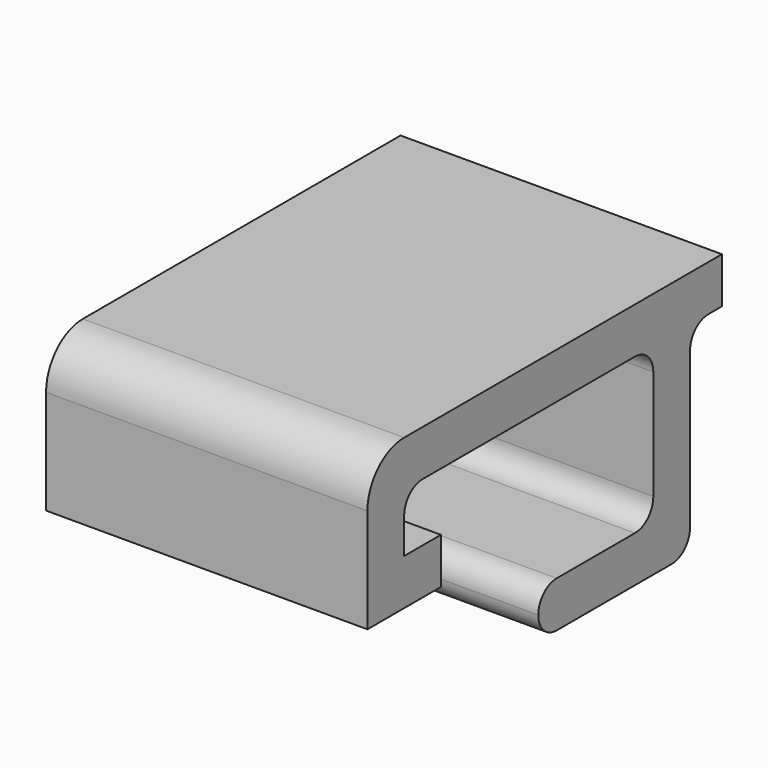
from build123d import *

# Parameters (mm, degrees)
F1_DEPTH = 35


with BuildPart() as f1:
    # F0 (on Right) → F1 (new body, symmetric)
    with BuildSketch(Plane.YZ):
        with BuildLine():
            Line((-31.5125, 0), (26.32237, 0))
            ThreePointArc((26.32237, 0), (29.857904, -1.464466), (31.32237, -5))
            Line((31.32237, -5), (31.32237, -28.852632))
            ThreePointArc((31.32237, -28.852632), (29.857904, -32.388166), (26.32237, -33.852632))
            Line((26.32237, -33.852632), (5, -33.852632))
            ThreePointArc((5, -33.852632), (1.464466, -35.317098), (0, -38.852632))
            ThreePointArc((0, -38.852632), (1.464466, -42.388166), (5, -43.852632))
            Line((5, -43.852632), (36.32237, -43.852632))
            ThreePointArc((36.32237, -43.852632), (39.857904, -42.388166), (41.32237, -38.852632))
            Line((41.32237, -38.852632), (41.32237, -5))
            ThreePointArc((41.32237, -5), (42.786836, -1.464466), (46.32237, 0))
            Line((46.32237, 0), (50, 0))
            Line((50, 0), (50, 10))
            Line((50, 10), (-36.5125, 10))
            ThreePointArc((-36.5125, 10), (-43.583568, 7.071068), (-46.5125, 0))
            Line((-46.5125, 0), (-46.5125, -22.7))
            Line((-46.5125, -22.7), (-26.5125, -22.7))
            Line((-26.5125, -22.7), (-26.5125, -12.7))
            Line((-26.5125, -12.7), (-36.5125, -12.7))
            Line((-36.5125, -12.7), (-36.5125, -5))
            ThreePointArc((-36.5125, -5), (-35.048034, -1.464466), (-31.5125, 0))
        make_face()
    extrude(amount=F1_DEPTH, both=True)


solid = f1.part
